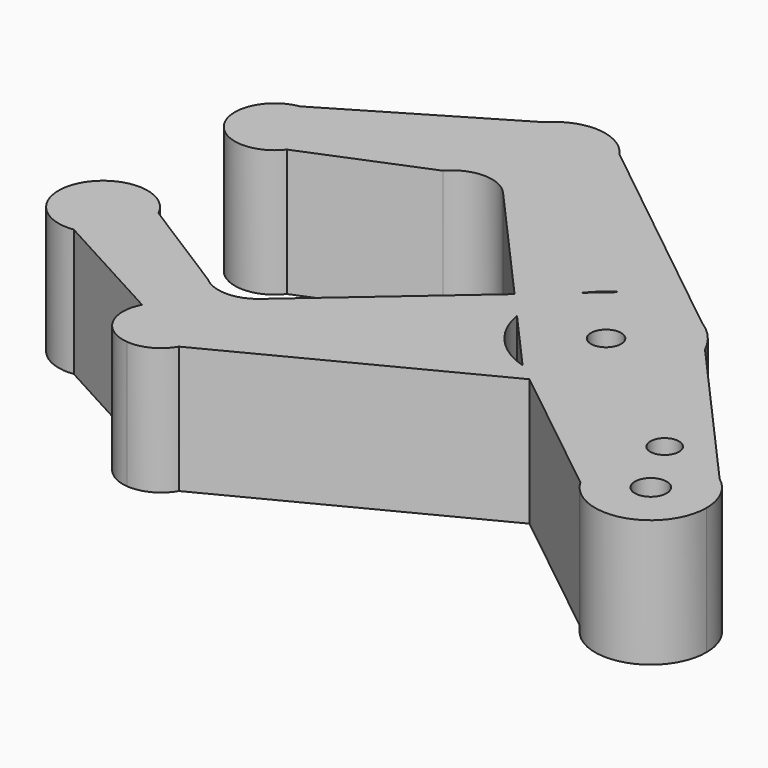
from build123d import *

# Parameters (mm, degrees)
F0_R     = 3.0043710318
F0_R_2   = 3.175
F1_DEPTH = 25.4


with BuildPart() as f1:
    # F0 (on Top) → F1 (new body)
    with BuildSketch(Plane.XY):
        with BuildLine():
            Line((14.3825741705, 6.7199096146), (8.3514579782, 13.5006953391))
            ThreePointArc((8.3514579782, 13.5006953391), (0.3779775203, 15.8704996139), (-7.6992788751, 13.8829654542))
            Line((-7.6992788751, 13.8829654542), (-12.6724380842, 9.5616388764))
            ThreePointArc((-12.6724380842, 9.5616388764), (-15.4266258064, 3.7463103487), (-15.6463763052, -2.6844987459))
            Line((-15.6463763052, -2.6844987459), (-4.4909803426, -15.2265137363))
            ThreePointArc((-4.4909803426, -15.2265137363), (1.497725163, -15.8041907207), (7.271304677, -14.1118302603))
            ThreePointArc((7.271304677, -14.1118302603), (13.5544750313, -8.2638871983), (15.875, 0))
            ThreePointArc((15.875, 0), (15.4974028462, 3.4418207422), (14.3825741705, 6.7199096146))
        make_face()
        Circle(F0_R, mode=Mode.SUBTRACT)
        with BuildLine():
            ThreePointArc((14.3825741705, 6.7199096146), (11.861864027, 10.5504410716), (8.3514579782, 13.5006953391))
            Line((8.3514579782, 13.5006953391), (14.3825741705, 6.7199096146))
        make_face()
        with BuildLine():
            ThreePointArc((-7.6992788751, 13.8829654542), (0.3779775203, 15.8704996139), (8.3514579782, 13.5006953391))
            Line((8.3514579782, 13.5006953391), (-37.2847150373, 49.9237820037))
            ThreePointArc((-37.2847150373, 49.9237820037), (-35.9437438836, 47.1727971434), (-35.4828127154, 44.1472949049))
            ThreePointArc((-35.4828127154, 44.1472949049), (-49.345849391, 34.6861575854), (-53.1035055067, 51.0439363394))
            Line((-53.1035055067, 51.0439363394), (-86.2388696466, 31.3836151645))
            ThreePointArc((-86.2388696466, 31.3836151645), (-79.8604900877, 29.5651165544), (-77.0894247023, 23.5391842927))
            ThreePointArc((-77.0894247023, 23.5391842927), (-77.5088532877, 20.9931072211), (-78.7228126593, 18.7161066861))
            Line((-78.7228126593, 18.7161066861), (-55.225755618, 28.3622618994))
            ThreePointArc((-55.225755618, 28.3622618994), (-49.2750868032, 31.076284), (-43.3029614193, 28.4098081034))
            Line((-43.3029614193, 28.4098081034), (-20.493781308, 2.765440137))
            Line((-20.493781308, 2.765440137), (-12.6724380842, 9.5616388764))
            ThreePointArc((-12.6724380842, 9.5616388764), (-10.4125010836, 11.9831317352), (-7.6992788751, 13.8829654542))
        make_face()
        with BuildLine():
            Line((43.4916438779, -26.0074260938), (14.3825741705, 6.7199096146))
            ThreePointArc((14.3825741705, 6.7199096146), (15.4974028462, 3.4418207422), (15.875, 0))
            ThreePointArc((15.875, 0), (13.5544750313, -8.2638871983), (7.271304677, -14.1118302603))
            Line((7.271304677, -14.1118302603), (-0.7174318046, -18.2281309718))
            Line((-0.7174318046, -18.2281309718), (27.2375291318, -40.4645198026))
            ThreePointArc((27.2375291318, -40.4645198026), (26.1554745178, -32.0201927375), (31.3667877085, -25.2882007145))
            ThreePointArc((31.3667877085, -25.2882007145), (37.5361745414, -23.8446798187), (43.4916438779, -26.0074260938))
        make_face()
        with BuildLine():
            ThreePointArc((32.8070785075, -22.8069058246), (32.4209123116, -24.2414146182), (31.3667877085, -25.2882007145))
            ThreePointArc((31.3667877085, -25.2882007145), (27.4782447035, -21.3723970309), (32.8070785075, -22.8069058246))
        make_face(mode=Mode.SUBTRACT)
        with BuildLine():
            ThreePointArc((-35.4828127154, 44.1472949049), (-35.9437438836, 47.1727971434), (-37.2847150373, 49.9237820037))
            ThreePointArc((-37.2847150373, 49.9237820037), (-44.9251635555, 54.2819177239), (-53.1035055067, 51.0439363394))
            ThreePointArc((-53.1035055067, 51.0439363394), (-49.345849391, 34.6861575854), (-35.4828127154, 44.1472949049))
        make_face()
        with BuildLine():
            ThreePointArc((-15.6463763052, -2.6844987459), (-15.4266258064, 3.7463103487), (-12.6724380842, 9.5616388764))
            Line((-12.6724380842, 9.5616388764), (-20.493781308, 2.765440137))
            Line((-20.493781308, 2.765440137), (-15.6463763052, -2.6844987459))
        make_face()
        with BuildLine():
            ThreePointArc((46.5187849108, -29.4108416552), (45.1814618402, -27.5523719788), (43.4916438779, -26.0074260938))
            Line((43.4916438779, -26.0074260938), (46.5187849108, -29.4108416552))
        make_face()
        with BuildLine():
            Line((46.5187849108, -29.4108416552), (43.4916438779, -26.0074260938))
            ThreePointArc((43.4916438779, -26.0074260938), (37.5361745414, -23.8446798187), (31.3667877085, -25.2882007145))
            ThreePointArc((31.3667877085, -25.2882007145), (26.1554745178, -32.0201927375), (27.2375291318, -40.4645198026))
            ThreePointArc((27.2375291318, -40.4645198026), (39.7378929207, -45.6759099514), (47.9906570213, -34.9376807289))
            ThreePointArc((47.9906570213, -34.9376807289), (47.6163862438, -32.0779448295), (46.5187849108, -29.4108416552))
        make_face()
        with Locations((36.8781570213, -34.9376807289)):
            Circle(F0_R_2, mode=Mode.SUBTRACT)
        with BuildLine():
            ThreePointArc((-4.4909803426, -15.2265137363), (-11.861864027, -10.5504410716), (-15.6463763052, -2.6844987459))
            Line((-15.6463763052, -2.6844987459), (-20.493781308, 2.765440137))
            Line((-20.493781308, 2.765440137), (-50.4060203438, -23.2261977966))
            ThreePointArc((-50.4060203438, -23.2261977966), (-55.7132555315, -25.1967300425), (-61.0031443147, -23.1800943961))
            Line((-61.0031443147, -23.1800943961), (-80.9405468136, -10.5763001971))
            ThreePointArc((-80.9405468136, -10.5763001971), (-80.316653673, -12.4114845417), (-80.1053407242, -14.3382671104))
            ThreePointArc((-80.1053407242, -14.3382671104), (-82.2990043641, -20.1855895191), (-87.7973945716, -23.1471844681))
            Line((-87.7973945716, -23.1471844681), (-63.6023153113, -36.3445038774))
            ThreePointArc((-63.6023153113, -36.3445038774), (-55.0299997662, -32.6007067871), (-49.2884898937, -39.9855341271))
            ThreePointArc((-49.2884898937, -39.9855341271), (-49.5450658668, -41.9462448655), (-50.2975152479, -43.7749159016))
            Line((-50.2975152479, -43.7749159016), (-0.7174318046, -18.2281309718))
            Line((-0.7174318046, -18.2281309718), (-4.4909803426, -15.2265137363))
        make_face()
        with BuildLine():
            Line((-0.7174318046, -18.2281309718), (7.271304677, -14.1118302603))
            ThreePointArc((7.271304677, -14.1118302603), (1.497725163, -15.8041907207), (-4.4909803426, -15.2265137363))
            Line((-4.4909803426, -15.2265137363), (-0.7174318046, -18.2281309718))
        make_face()
        with BuildLine():
            ThreePointArc((-77.0894247023, 23.5391842927), (-79.8604900877, 29.5651165544), (-86.2388696466, 31.3836151645))
            Line((-86.2388696466, 31.3836151645), (-91.3310367453, 28.3622618994))
            ThreePointArc((-91.3310367453, 28.3622618994), (-89.8500023089, 17.2350722497), (-78.7228126593, 18.7161066861))
            ThreePointArc((-78.7228126593, 18.7161066861), (-77.5088532877, 20.9931072211), (-77.0894247023, 23.5391842927))
        make_face()
        with BuildLine():
            Line((-91.3310367453, 28.3622618994), (-86.2388696466, 31.3836151645))
            ThreePointArc((-86.2388696466, 31.3836151645), (-89.0772237094, 30.3655291567), (-91.3310367453, 28.3622618994))
        make_face()
        with BuildLine():
            ThreePointArc((-57.6597608948, -47.5684090359), (-53.4182636488, -46.759212652), (-50.2975152479, -43.7749159016))
            Line((-50.2975152479, -43.7749159016), (-57.6597608948, -47.5684090359))
        make_face()
        with BuildLine():
            Line((-57.6597608948, -47.5684090359), (-50.2975152479, -43.7749159016))
            ThreePointArc((-50.2975152479, -43.7749159016), (-49.5450658668, -41.9462448655), (-49.2884898937, -39.9855341271))
            ThreePointArc((-49.2884898937, -39.9855341271), (-55.0299997662, -32.6007067871), (-63.6023153113, -36.3445038774))
            ThreePointArc((-63.6023153113, -36.3445038774), (-63.6428329888, -43.5510667769), (-57.6597608948, -47.5684090359))
        make_face()
        with BuildLine():
            ThreePointArc((-80.1053407242, -14.3382671104), (-80.316653673, -12.4114845417), (-80.9405468136, -10.5763001971))
            ThreePointArc((-80.9405468136, -10.5763001971), (-92.7573076375, -6.2834731997), (-97.0501346349, -18.1002340237))
            Line((-97.0501346349, -18.1002340237), (-87.7973945716, -23.1471844681))
            ThreePointArc((-87.7973945716, -23.1471844681), (-82.2990043641, -20.1855895191), (-80.1053407242, -14.3382671104))
        make_face()
        with BuildLine():
            Line((-87.7973945716, -23.1471844681), (-97.0501346349, -18.1002340237))
            ThreePointArc((-97.0501346349, -18.1002340237), (-93.2523370234, -22.1427582859), (-87.7973945716, -23.1471844681))
        make_face()
    extrude(amount=F1_DEPTH)


solid = f1.part
